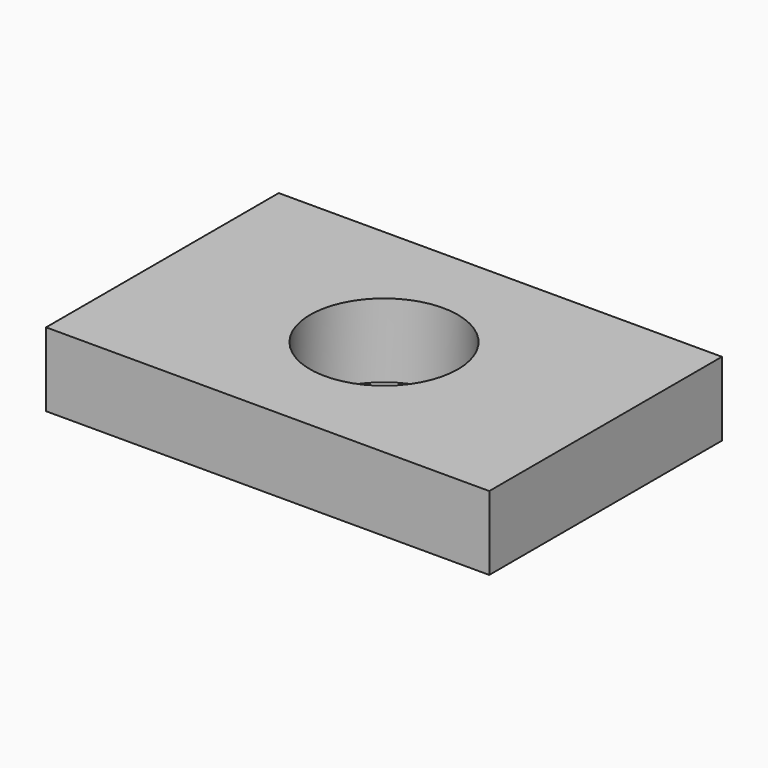
from build123d import *

# Parameters (mm, degrees)
F1_W     = 76.2
F1_H     = 50
F1_R     = 12.7
F2_DEPTH = 12.7


with BuildPart() as f2:
    # F1 (on face) → F2 (new body)
    with BuildSketch(Plane.XY):
        with Locations((-39.862406, 15.170275)):
            Rectangle(F1_W, F1_H)
        with Locations((-39.862406, 15.170275)):
            Circle(F1_R, mode=Mode.SUBTRACT)
    extrude(amount=F2_DEPTH)


solid = f2.part
